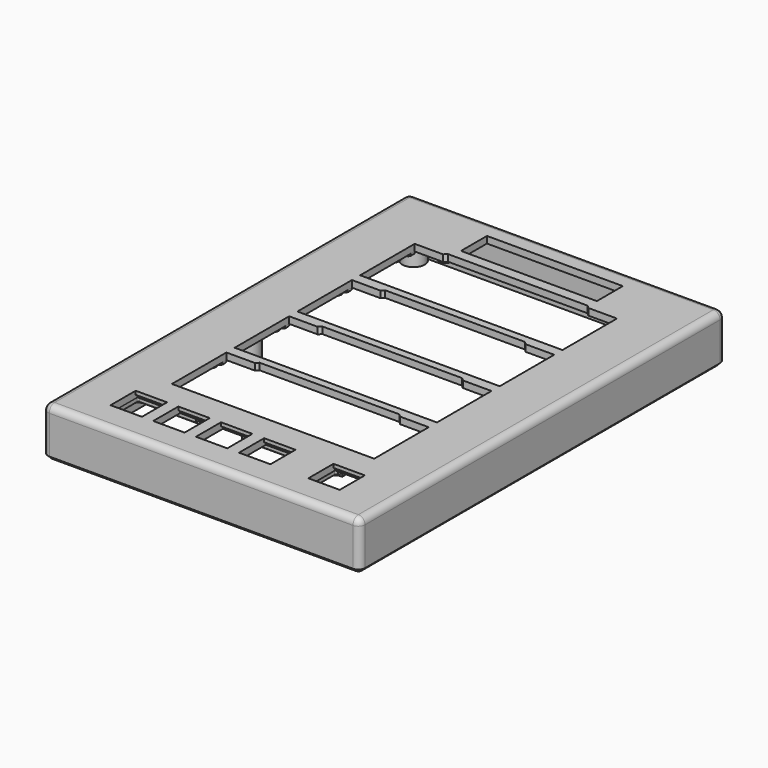
from build123d import *

# Parameters (mm, degrees)
TUBE041_R         = 5
TUBE041_R_2       = 2.25
TUBE041_DEPTH     = 16.9
TUBE042_R         = 5
TUBE042_R_2       = 2.25
TUBE042_DEPTH     = 16.9
TUBE043_R         = 5
TUBE043_R_2       = 2.25
TUBE043_DEPTH     = 16.9
TUBE044_R         = 5
TUBE044_R_2       = 2.25
TUBE044_DEPTH     = 16.9
TUBE045_R         = 5
TUBE045_R_2       = 2.25
TUBE045_DEPTH     = 16.9
TUBE040_R         = 5
TUBE040_R_2       = 2.25
TUBE040_DEPTH     = 16.9
TUBE035_R         = 2.25
TUBE035_R_2       = 1.025
TUBE035_DEPTH     = 6
TUBE036_R         = 2.25
TUBE036_R_2       = 1.025
TUBE036_DEPTH     = 6
TUBE037_R         = 2.25
TUBE037_R_2       = 1.025
TUBE037_DEPTH     = 6
TUBE038_R         = 2.25
TUBE038_R_2       = 1.025
TUBE038_DEPTH     = 6
TUBE039_R         = 2.25
TUBE039_R_2       = 1.025
TUBE039_DEPTH     = 6
TUBE034_R         = 2.25
TUBE034_R_2       = 1.025
TUBE034_DEPTH     = 6
EXTRUDE014_DEPTH  = 2
EXTRUDE013_DEPTH  = 1.55
EXTRUDE012_DEPTH  = 1.55
EXTRUDE011_DEPTH  = 2
TUBE025_R         = 3
TUBE025_R_2       = 1.25
TUBE025_DEPTH     = 6
TUBE026_R         = 3
TUBE026_R_2       = 1.25
TUBE026_DEPTH     = 6
TUBE027_R         = 3
TUBE027_R_2       = 1.25
TUBE027_DEPTH     = 6
TUBE028_R         = 3
TUBE028_R_2       = 1.25
TUBE028_DEPTH     = 6
TUBE029_R         = 3
TUBE029_R_2       = 1.25
TUBE029_DEPTH     = 6
TUBE030_R         = 3
TUBE030_R_2       = 1.25
TUBE030_DEPTH     = 6
TUBE031_R         = 3
TUBE031_R_2       = 1.25
TUBE031_DEPTH     = 6
TUBE032_R         = 3
TUBE032_R_2       = 1.25
TUBE032_DEPTH     = 6
TUBE033_R         = 3
TUBE033_R_2       = 1.25
TUBE033_DEPTH     = 6
TUBE024_R         = 3
TUBE024_R_2       = 1.25
TUBE024_DEPTH     = 6
CYLINDER030_R     = 1.4
CYLINDER030_DEPTH = 1
CYLINDER031_R     = 2.25
CYLINDER031_DEPTH = 1
CYLINDER032_R     = 1.4
CYLINDER032_DEPTH = 1
CYLINDER033_R     = 2.25
CYLINDER033_DEPTH = 1
CYLINDER034_R     = 1.4
CYLINDER034_DEPTH = 1
CYLINDER035_R     = 2.25
CYLINDER035_DEPTH = 1
CYLINDER036_R     = 1.4
CYLINDER036_DEPTH = 1
CYLINDER037_R     = 2.25
CYLINDER037_DEPTH = 1
CYLINDER038_R     = 1.4
CYLINDER038_DEPTH = 1
CYLINDER039_R     = 2.25
CYLINDER039_DEPTH = 1
CYLINDER040_R     = 1.4
CYLINDER040_DEPTH = 1
CYLINDER041_R     = 2.25
CYLINDER041_DEPTH = 1
CYLINDER042_R     = 1.4
CYLINDER042_DEPTH = 1
CYLINDER043_R     = 2.25
CYLINDER043_DEPTH = 1
CYLINDER044_R     = 1.4
CYLINDER044_DEPTH = 1
CYLINDER045_R     = 2.25
CYLINDER045_DEPTH = 1
CYLINDER046_R     = 1.4
CYLINDER046_DEPTH = 1
CYLINDER047_R     = 2.25
CYLINDER047_DEPTH = 1
CYLINDER048_R     = 1.4
CYLINDER048_DEPTH = 1
CYLINDER049_R     = 2.25
CYLINDER049_DEPTH = 1
CYLINDER050_R     = 1.4
CYLINDER050_DEPTH = 1
CYLINDER051_R     = 2.25
CYLINDER051_DEPTH = 1
CYLINDER052_R     = 1.4
CYLINDER052_DEPTH = 1
CYLINDER053_R     = 2.25
CYLINDER053_DEPTH = 1
CYLINDER054_R     = 1.4
CYLINDER054_DEPTH = 1
CYLINDER055_R     = 2.25
CYLINDER055_DEPTH = 1
CYLINDER056_R     = 1.4
CYLINDER056_DEPTH = 1
CYLINDER057_R     = 2.25
CYLINDER057_DEPTH = 1
CYLINDER058_R     = 1.4
CYLINDER058_DEPTH = 1
CYLINDER059_R     = 2.25
CYLINDER059_DEPTH = 1
CYLINDER028_R     = 1.4
CYLINDER028_DEPTH = 1
CYLINDER029_R     = 2.25
CYLINDER029_DEPTH = 1
BOX016_W          = 5.25
BOX016_H          = 20.5
BOX016_DEPTH      = 2.5
BOX017_W          = 5.25
BOX017_H          = 20.5
BOX017_DEPTH      = 2.5
BOX018_W          = 5.25
BOX018_H          = 20.5
BOX018_DEPTH      = 2.5
BOX015_W          = 5.25
BOX015_H          = 20.5
BOX015_DEPTH      = 2.5
BOX011_W          = 14
BOX011_H          = 14
BOX011_DEPTH      = 4
BOX012_W          = 14
BOX012_H          = 14
BOX012_DEPTH      = 4
BOX013_W          = 14
BOX013_H          = 14
BOX013_DEPTH      = 4
BOX014_W          = 14
BOX014_H          = 14
BOX014_DEPTH      = 4
BOX026_W          = 14
BOX026_H          = 16
BOX026_DEPTH      = 2.2
BOX027_W          = 14
BOX027_H          = 16
BOX027_DEPTH      = 2.2
BOX028_W          = 14
BOX028_H          = 16
BOX028_DEPTH      = 2.2
BOX029_W          = 14
BOX029_H          = 16
BOX029_DEPTH      = 2.2
BOX030_W          = 14
BOX030_H          = 16
BOX030_DEPTH      = 2.2
BOX010_W          = 14
BOX010_H          = 14
BOX010_DEPTH      = 4
EXTRUDE004_DEPTH  = 4
EXTRUDE005_DEPTH  = 4
EXTRUDE006_DEPTH  = 4
EXTRUDE003_DEPTH  = 4
CYLINDER021_R     = 1.25
CYLINDER021_DEPTH = 6.85
CYLINDER023_R     = 1.25
CYLINDER023_DEPTH = 6.85
CYLINDER025_R     = 1.25
CYLINDER025_DEPTH = 6.85
CYLINDER027_R     = 1.25
CYLINDER027_DEPTH = 6.85
CYLINDER022_R     = 2.5
CYLINDER022_DEPTH = 4.85
CYLINDER024_R     = 2.5
CYLINDER024_DEPTH = 4.85
CYLINDER026_R     = 2.5
CYLINDER026_DEPTH = 4.85
CYLINDER020_R     = 2.5
CYLINDER020_DEPTH = 4.85
BOX009_W          = 60.63
BOX009_H          = 14.49
BOX009_DEPTH      = 4
BOX005_W          = 135.5
BOX005_H          = 198
BOX005_DEPTH      = 1.5
SKETCH_W          = 135.5
SKETCH_H          = 198
EXTRUDE_DEPTH     = 1.5
BOX001_W          = 135.5
BOX001_H          = 198
BOX001_DEPTH      = 17
THICKNESS001_T    = 3


with BuildPart() as tube041:
    # Tube041 → Tube041 (new body)
    with BuildSketch(Plane(origin=(64.5, 50, -16.6), x_dir=(1, 0, 0), z_dir=(0, 0, 1))):
        Circle(TUBE041_R)
        Circle(TUBE041_R_2, mode=Mode.SUBTRACT)
    extrude(amount=TUBE041_DEPTH)


with BuildPart() as tube042:
    # Tube042 → Tube042 (new body)
    with BuildSketch(Plane(origin=(64.5, 142.5, -16.6), x_dir=(1, 0, 0), z_dir=(0, 0, 1))):
        Circle(TUBE042_R)
        Circle(TUBE042_R_2, mode=Mode.SUBTRACT)
    extrude(amount=TUBE042_DEPTH)


with BuildPart() as tube043:
    # Tube043 → Tube043 (new body)
    with BuildSketch(Plane(origin=(-57.5, -42.5, -16.6), x_dir=(1, 0, 0), z_dir=(0, 0, 1))):
        Circle(TUBE043_R)
        Circle(TUBE043_R_2, mode=Mode.SUBTRACT)
    extrude(amount=TUBE043_DEPTH)


with BuildPart() as tube044:
    # Tube044 → Tube044 (new body)
    with BuildSketch(Plane(origin=(-57.5, 50, -16.6), x_dir=(1, 0, 0), z_dir=(0, 0, 1))):
        Circle(TUBE044_R)
        Circle(TUBE044_R_2, mode=Mode.SUBTRACT)
    extrude(amount=TUBE044_DEPTH)


with BuildPart() as tube045:
    # Tube045 → Tube045 (new body)
    with BuildSketch(Plane(origin=(-57.5, 142.5, -16.6), x_dir=(1, 0, 0), z_dir=(0, 0, 1))):
        Circle(TUBE045_R)
        Circle(TUBE045_R_2, mode=Mode.SUBTRACT)
    extrude(amount=TUBE045_DEPTH)


with BuildPart() as upper_mounting_posts:
    # Tube040 → Tube040 (new body)
    with BuildSketch(Plane(origin=(64.5, -42.5, -16.6), x_dir=(1, 0, 0), z_dir=(0, 0, 1))):
        Circle(TUBE040_R)
        Circle(TUBE040_R_2, mode=Mode.SUBTRACT)
    extrude(amount=TUBE040_DEPTH)

    # Fusion068: union Tube041, Tube042, Tube043, Tube044, Tube045
    add(tube041.part)
    add(tube042.part)
    add(tube043.part)
    add(tube044.part)
    add(tube045.part)


with BuildPart() as tube035:
    # Tube035 → Tube035 (new body)
    with BuildSketch(Plane(origin=(61.43, -31.52, -5.7), x_dir=(1, 0, 0), z_dir=(0, 0, 1))):
        Circle(TUBE035_R)
        Circle(TUBE035_R_2, mode=Mode.SUBTRACT)
    extrude(amount=TUBE035_DEPTH)


with BuildPart() as tube036:
    # Tube036 → Tube036 (new body)
    with BuildSketch(Plane(origin=(15.18, -16.37, -5.7), x_dir=(1, 0, 0), z_dir=(0, 0, 1))):
        Circle(TUBE036_R)
        Circle(TUBE036_R_2, mode=Mode.SUBTRACT)
    extrude(amount=TUBE036_DEPTH)


with BuildPart() as tube037:
    # Tube037 → Tube037 (new body)
    with BuildSketch(Plane(origin=(-39.32, -16.32, -5.7), x_dir=(1, 0, 0), z_dir=(0, 0, 1))):
        Circle(TUBE037_R)
        Circle(TUBE037_R_2, mode=Mode.SUBTRACT)
    extrude(amount=TUBE037_DEPTH)


with BuildPart() as tube038:
    # Tube038 → Tube038 (new body)
    with BuildSketch(Plane(origin=(15.18, -46.87, -5.7), x_dir=(1, 0, 0), z_dir=(0, 0, 1))):
        Circle(TUBE038_R)
        Circle(TUBE038_R_2, mode=Mode.SUBTRACT)
    extrude(amount=TUBE038_DEPTH)


with BuildPart() as tube039:
    # Tube039 → Tube039 (new body)
    with BuildSketch(Plane(origin=(-39.32, -46.72, -5.7), x_dir=(1, 0, 0), z_dir=(0, 0, 1))):
        Circle(TUBE039_R)
        Circle(TUBE039_R_2, mode=Mode.SUBTRACT)
    extrude(amount=TUBE039_DEPTH)


with BuildPart() as obj1:
    # Tube034 → Tube034 (new body)
    with BuildSketch(Plane(origin=(33.43, -31.47, -5.7), x_dir=(1, 0, 0), z_dir=(0, 0, 1))):
        Circle(TUBE034_R)
        Circle(TUBE034_R_2, mode=Mode.SUBTRACT)
    extrude(amount=TUBE034_DEPTH)

    # Fusion047: union Tube035, Tube036, Tube037, Tube038, Tube039
    add(tube035.part)
    add(tube036.part)
    add(tube037.part)
    add(tube038.part)
    add(tube039.part)


with BuildPart() as extrude014:
    # Sketch010 (on Sketch) → Extrude014 (new body)
    with BuildSketch(Plane(origin=(-64.35, -49.1, -16.7), x_dir=(1, 0, 0), z_dir=(0, 0, 1))):
        with BuildLine():
            ThreePointArc((85.4, 66.88), (84.070265, 70.090265), (80.86, 71.42))
            Line((80.86, 71.42), (80.225, 71.42))
            Line((80.225, 67.42), (80.225, 71.42))
            Line((80.86, 67.42), (80.225, 67.42))
            ThreePointArc((81.4, 66.88), (81.241837, 67.261838), (80.86, 67.42))
            Line((81.4, 50.37), (81.4, 66.88))
            ThreePointArc((80.86, 49.83), (81.241838, 49.988163), (81.4, 50.37))
            Line((80.225, 49.83), (80.86, 49.83))
            Line((80.225, 45.83), (80.225, 49.83))
            Line((80.86, 45.83), (80.225, 45.83))
            ThreePointArc((80.86, 45.83), (84.070265, 47.159735), (85.4, 50.37))
            Line((85.4, 66.88), (85.4, 50.37))
        make_face()
        with BuildLine():
            ThreePointArc((66.889986, 71.42), (63.679728, 70.090258), (62.35, 66.879994))
            Line((62.35, 66.879994), (62.35, 50.37))
            ThreePointArc((62.35, 50.37), (63.679735, 47.159735), (66.89, 45.83))
            Line((66.89, 45.83), (67.525, 45.83))
            Line((67.525, 49.83), (67.525, 45.83))
            Line((66.89, 49.83), (67.525, 49.83))
            ThreePointArc((66.35, 50.37), (66.508162, 49.988162), (66.89, 49.83))
            Line((66.35, 66.879994), (66.35, 50.37))
            ThreePointArc((66.889994, 67.42), (66.508158, 67.261834), (66.35, 66.879994))
            Line((66.889994, 67.42), (67.524986, 67.42))
            Line((67.524986, 71.42), (67.524986, 67.42))
            Line((66.889986, 71.42), (67.524986, 71.42))
        make_face()
    extrude(amount=EXTRUDE014_DEPTH)


with BuildPart() as extrude014_1:
    # Extrude014 placement: moved
    add(extrude014.part.moved(Location((39.9, -41.05, 15))))


with BuildPart() as obj2:
    # Sketch009 (on Box) → Extrude013 (new body)
    with BuildSketch(Plane(origin=(-64.35, -49.1, -16.7), x_dir=(1, 0, 0), z_dir=(0, 0, 1))):
        with BuildLine():
            ThreePointArc((66.889986, 71.42), (63.679725, 70.090255), (62.35, 66.879986))
            Line((62.35, 66.879986), (62.35, 50.37))
            ThreePointArc((62.35, 50.37), (63.679735, 47.159735), (66.89, 45.83))
            Line((66.89, 45.83), (67.525, 45.83))
            Line((67.525, 45.83), (67.525, 47.58))
            Line((66.89, 47.58), (67.525, 47.58))
            ThreePointArc((64.1, 50.37), (64.917172, 48.397172), (66.89, 47.58))
            Line((64.1, 50.37), (64.1, 66.879986))
            ThreePointArc((66.889986, 69.67), (64.917162, 68.852818), (64.1, 66.879986))
            Line((67.524986, 69.67), (66.889986, 69.67))
            Line((67.524986, 71.42), (67.524986, 69.67))
            Line((66.889986, 71.42), (67.524986, 71.42))
        make_face()
        with BuildLine():
            ThreePointArc((83.65, 66.88), (82.832828, 68.852828), (80.86, 69.67))
            Line((80.225, 69.67), (80.86, 69.67))
            Line((80.225, 71.42), (80.225, 69.67))
            Line((80.86, 71.42), (80.225, 71.42))
            ThreePointArc((85.4, 66.88), (84.070265, 70.090265), (80.86, 71.42))
            Line((85.4, 66.88), (85.4, 50.37))
            ThreePointArc((80.86, 45.83), (84.070265, 47.159735), (85.4, 50.37))
            Line((80.225, 45.83), (80.86, 45.83))
            Line((80.225, 47.58), (80.225, 45.83))
            Line((80.86, 47.58), (80.225, 47.58))
            ThreePointArc((80.86, 47.58), (82.832828, 48.397172), (83.65, 50.37))
            Line((83.65, 66.88), (83.65, 50.37))
        make_face()
    extrude(amount=-EXTRUDE013_DEPTH)


with BuildPart() as obj2_1:
    # Extrude013 placement: moved
    add(obj2.part.moved(Location((39.9, -41.05, 15))))

    # Fusion044: union Extrude014
    add(extrude014_1.part)


with BuildPart() as obj2_2:
    # Fusion044 placement: moved
    add(obj2_1.part.moved(Location((-2, 0, 0))))


with BuildPart() as extrude012:
    # Sketch007 (on Box) → Extrude012 (new body)
    with BuildSketch(Plane(origin=(-64.35, -49.1, -16.7), x_dir=(1, 0, 0), z_dir=(0, 0, 1))):
        with BuildLine():
            ThreePointArc((140.8, 68.15), (139.982828, 70.122828), (138.01, 70.94))
            Line((112.8, 70.94), (138.01, 70.94))
            Line((112.8, 72.69), (112.8, 70.94))
            Line((112.8, 72.69), (138.01, 72.69))
            ThreePointArc((142.55, 68.15), (141.220265, 71.360265), (138.01, 72.69))
            Line((142.55, 68.15), (142.55, 51.64))
            ThreePointArc((138.01, 47.1), (141.220265, 48.429735), (142.55, 51.64))
            Line((138.01, 47.1), (112.8, 47.1))
            Line((112.8, 48.85), (112.8, 47.1))
            Line((112.8, 48.85), (138.004718, 48.85))
            ThreePointArc((138.004718, 48.85), (139.979093, 49.663437), (140.8, 51.634718))
            Line((140.8, 51.634718), (140.8, 68.15))
        make_face()
        with BuildLine():
            ThreePointArc((66.89, 72.69), (63.679735, 71.360265), (62.35, 68.15))
            Line((62.35, 51.64), (62.35, 68.15))
            ThreePointArc((62.35, 51.64), (63.679735, 48.429735), (66.89, 47.1))
            Line((92.1, 47.1), (66.89, 47.1))
            Line((92.1, 48.85), (92.1, 47.1))
            Line((92.1, 48.85), (66.970175, 48.85))
            ThreePointArc((64.1, 51.559825), (64.973864, 49.61048), (66.970175, 48.85))
            Line((64.1, 68.112229), (64.1, 51.559825))
            ThreePointArc((66.852229, 70.94), (64.890464, 70.09612), (64.1, 68.112229))
            Line((92.1, 70.94), (66.852229, 70.94))
            Line((92.1, 72.69), (92.1, 70.94))
            Line((66.89, 72.69), (92.1, 72.69))
        make_face()
    extrude(amount=-EXTRUDE012_DEPTH)


with BuildPart() as extrude012_1:
    # Extrude012 placement: moved
    add(extrude012.part.moved(Location((-0.02, 0, 14.99))))


with BuildPart() as obj3:
    # Sketch008 (on Sketch) → Extrude011 (new body)
    with BuildSketch(Plane(origin=(-64.35, -49.1, -16.7), x_dir=(1, 0, 0), z_dir=(0, 0, 1))):
        with BuildLine():
            Line((92.099827, 72.69), (66.89, 72.69))
            ThreePointArc((66.89, 72.69), (63.679735, 71.360265), (62.35, 68.15))
            Line((62.35, 68.15), (62.35, 51.64))
            ThreePointArc((62.35, 51.64), (63.679735, 48.429735), (66.89, 47.1))
            Line((92.099827, 47.1), (66.89, 47.1))
            Line((92.099827, 47.1), (92.099827, 51.1))
            Line((92.099827, 51.1), (66.89, 51.1))
            ThreePointArc((66.35, 51.64), (66.508162, 51.258162), (66.89, 51.1))
            Line((66.35, 68.15), (66.35, 51.64))
            ThreePointArc((66.89, 68.69), (66.508162, 68.531838), (66.35, 68.15))
            Line((92.099827, 68.69), (66.89, 68.69))
            Line((92.099827, 72.69), (92.099827, 68.69))
        make_face()
        with BuildLine():
            Line((112.8, 72.69), (138.009826, 72.697516))
            ThreePointArc((142.549826, 68.157516), (141.220091, 71.367781), (138.009826, 72.697516))
            Line((142.549826, 68.157516), (142.55, 51.64))
            ThreePointArc((138.01, 47.1), (141.220265, 48.429735), (142.55, 51.64))
            Line((112.800173, 47.1), (138.01, 47.1))
            Line((112.800173, 47.1), (112.800173, 51.1))
            Line((112.800173, 51.1), (138.01, 51.1))
            ThreePointArc((138.01, 51.1), (138.422697, 51.291745), (138.54231, 51.730809))
            Line((138.54231, 68.157515), (138.54231, 51.730809))
            ThreePointArc((138.54231, 68.157515), (138.38635, 68.534038), (138.009827, 68.69))
            Line((112.8, 68.69), (138.009827, 68.69))
            Line((112.8, 72.69), (112.8, 68.69))
        make_face()
    extrude(amount=EXTRUDE011_DEPTH)


with BuildPart() as obj3_1:
    # Extrude011 placement: moved
    add(obj3.part.moved(Location((0, 0, 15))))

    # Fusion043: union Extrude012
    add(extrude012_1.part)


with BuildPart() as obj3_2:
    # Fusion043 placement: moved
    add(obj3_1.part.moved(Location((-50.2, -42.35, 0))))

    # Fusion045: union obj2
    add(obj2_2.part)


with BuildPart() as tube025:
    # Tube025 → Tube025 (new body)
    with BuildSketch(Plane(origin=(-51, 55.5, -5.75), x_dir=(1, 0, 0), z_dir=(0, 0, 1))):
        Circle(TUBE025_R)
        Circle(TUBE025_R_2, mode=Mode.SUBTRACT)
    extrude(amount=TUBE025_DEPTH)


with BuildPart() as tube026:
    # Tube026 → Tube026 (new body)
    with BuildSketch(Plane(origin=(-51, 90.5, -5.75), x_dir=(1, 0, 0), z_dir=(0, 0, 1))):
        Circle(TUBE026_R)
        Circle(TUBE026_R_2, mode=Mode.SUBTRACT)
    extrude(amount=TUBE026_DEPTH)


with BuildPart() as tube027:
    # Tube027 → Tube027 (new body)
    with BuildSketch(Plane(origin=(57.75, 20.5, -5.75), x_dir=(1, 0, 0), z_dir=(0, 0, 1))):
        Circle(TUBE027_R)
        Circle(TUBE027_R_2, mode=Mode.SUBTRACT)
    extrude(amount=TUBE027_DEPTH)


with BuildPart() as tube028:
    # Tube028 → Tube028 (new body)
    with BuildSketch(Plane(origin=(57.75, 55.5, -5.75), x_dir=(1, 0, 0), z_dir=(0, 0, 1))):
        Circle(TUBE028_R)
        Circle(TUBE028_R_2, mode=Mode.SUBTRACT)
    extrude(amount=TUBE028_DEPTH)


with BuildPart() as tube029:
    # Tube029 → Tube029 (new body)
    with BuildSketch(Plane(origin=(57.75, 90.5, -5.75), x_dir=(1, 0, 0), z_dir=(0, 0, 1))):
        Circle(TUBE029_R)
        Circle(TUBE029_R_2, mode=Mode.SUBTRACT)
    extrude(amount=TUBE029_DEPTH)


with BuildPart() as tube030:
    # Tube030 → Tube030 (new body)
    with BuildSketch(Plane(origin=(57.75, 122.5, -5.75), x_dir=(1, 0, 0), z_dir=(0, 0, 1))):
        Circle(TUBE030_R)
        Circle(TUBE030_R_2, mode=Mode.SUBTRACT)
    extrude(amount=TUBE030_DEPTH)


with BuildPart() as tube031:
    # Tube031 → Tube031 (new body)
    with BuildSketch(Plane(origin=(57.75, -11.25, -5.75), x_dir=(1, 0, 0), z_dir=(0, 0, 1))):
        Circle(TUBE031_R)
        Circle(TUBE031_R_2, mode=Mode.SUBTRACT)
    extrude(amount=TUBE031_DEPTH)


with BuildPart() as tube032:
    # Tube032 → Tube032 (new body)
    with BuildSketch(Plane(origin=(-51, 122.5, -5.75), x_dir=(1, 0, 0), z_dir=(0, 0, 1))):
        Circle(TUBE032_R)
        Circle(TUBE032_R_2, mode=Mode.SUBTRACT)
    extrude(amount=TUBE032_DEPTH)


with BuildPart() as tube033:
    # Tube033 → Tube033 (new body)
    with BuildSketch(Plane(origin=(-51, -11.25, -5.75), x_dir=(1, 0, 0), z_dir=(0, 0, 1))):
        Circle(TUBE033_R)
        Circle(TUBE033_R_2, mode=Mode.SUBTRACT)
    extrude(amount=TUBE033_DEPTH)


with BuildPart() as oled_screw_posts:
    # Tube024 → Tube024 (new body)
    with BuildSketch(Plane(origin=(-51, 20.5, -5.75), x_dir=(1, 0, 0), z_dir=(0, 0, 1))):
        Circle(TUBE024_R)
        Circle(TUBE024_R_2, mode=Mode.SUBTRACT)
    extrude(amount=TUBE024_DEPTH)

    # Fusion039: union Tube025, Tube026, Tube027, Tube028, Tube029, Tube030, Tube031, Tube032, Tube033
    add(tube025.part)
    add(tube026.part)
    add(tube027.part)
    add(tube028.part)
    add(tube029.part)
    add(tube030.part)
    add(tube031.part)
    add(tube032.part)
    add(tube033.part)


with BuildPart() as cylinder030:
    # Cylinder030 → Cylinder030 (new body)
    with BuildSketch(Plane(origin=(51.4, -11.25, -1.45), x_dir=(1, 0, 0), z_dir=(0, 0, 1))):
        Circle(CYLINDER030_R)
    extrude(amount=CYLINDER030_DEPTH)


with BuildPart() as oled_mounting_post002:
    # Cylinder031 → Cylinder031 (new body)
    with BuildSketch(Plane(origin=(51.4, -11.25, -0.7), x_dir=(1, 0, 0), z_dir=(0, 0, 1))):
        Circle(CYLINDER031_R)
    extrude(amount=CYLINDER031_DEPTH)

    # Fusion022: union Cylinder030
    add(cylinder030.part)


with BuildPart() as oled_mounting_post002_1:
    # Fusion022 placement: moved
    add(oled_mounting_post002.part.moved(Location((-95, 0, 0))))


with BuildPart() as cylinder032:
    # Cylinder032 → Cylinder032 (new body)
    with BuildSketch(Plane(origin=(51.4, -11.25, -1.45), x_dir=(1, 0, 0), z_dir=(0, 0, 1))):
        Circle(CYLINDER032_R)
    extrude(amount=CYLINDER032_DEPTH)


with BuildPart() as oled_mounting_post003:
    # Cylinder033 → Cylinder033 (new body)
    with BuildSketch(Plane(origin=(51.4, -11.25, -0.7), x_dir=(1, 0, 0), z_dir=(0, 0, 1))):
        Circle(CYLINDER033_R)
    extrude(amount=CYLINDER033_DEPTH)

    # Fusion023: union Cylinder032
    add(cylinder032.part)


with BuildPart() as oled_mounting_post003_1:
    # Fusion023 placement: moved
    add(oled_mounting_post003.part.moved(Location((0, 28.5, 0))))


with BuildPart() as cylinder034:
    # Cylinder034 → Cylinder034 (new body)
    with BuildSketch(Plane(origin=(51.4, -11.25, -1.45), x_dir=(1, 0, 0), z_dir=(0, 0, 1))):
        Circle(CYLINDER034_R)
    extrude(amount=CYLINDER034_DEPTH)


with BuildPart() as oled_mounting_post004:
    # Cylinder035 → Cylinder035 (new body)
    with BuildSketch(Plane(origin=(51.4, -11.25, -0.7), x_dir=(1, 0, 0), z_dir=(0, 0, 1))):
        Circle(CYLINDER035_R)
    extrude(amount=CYLINDER035_DEPTH)

    # Fusion024: union Cylinder034
    add(cylinder034.part)


with BuildPart() as oled_mounting_post004_1:
    # Fusion024 placement: moved
    add(oled_mounting_post004.part.moved(Location((0, 35, 0))))


with BuildPart() as cylinder036:
    # Cylinder036 → Cylinder036 (new body)
    with BuildSketch(Plane(origin=(51.4, -11.25, -1.45), x_dir=(1, 0, 0), z_dir=(0, 0, 1))):
        Circle(CYLINDER036_R)
    extrude(amount=CYLINDER036_DEPTH)


with BuildPart() as oled_mounting_post005:
    # Cylinder037 → Cylinder037 (new body)
    with BuildSketch(Plane(origin=(51.4, -11.25, -0.7), x_dir=(1, 0, 0), z_dir=(0, 0, 1))):
        Circle(CYLINDER037_R)
    extrude(amount=CYLINDER037_DEPTH)

    # Fusion025: union Cylinder036
    add(cylinder036.part)


with BuildPart() as oled_mounting_post005_1:
    # Fusion025 placement: moved
    add(oled_mounting_post005.part.moved(Location((0, 63.5, 0))))


with BuildPart() as cylinder038:
    # Cylinder038 → Cylinder038 (new body)
    with BuildSketch(Plane(origin=(51.4, -11.25, -1.45), x_dir=(1, 0, 0), z_dir=(0, 0, 1))):
        Circle(CYLINDER038_R)
    extrude(amount=CYLINDER038_DEPTH)


with BuildPart() as oled_mounting_post006:
    # Cylinder039 → Cylinder039 (new body)
    with BuildSketch(Plane(origin=(51.4, -11.25, -0.7), x_dir=(1, 0, 0), z_dir=(0, 0, 1))):
        Circle(CYLINDER039_R)
    extrude(amount=CYLINDER039_DEPTH)

    # Fusion026: union Cylinder038
    add(cylinder038.part)


with BuildPart() as oled_mounting_post006_1:
    # Fusion026 placement: moved
    add(oled_mounting_post006.part.moved(Location((0, 70, 0))))


with BuildPart() as cylinder040:
    # Cylinder040 → Cylinder040 (new body)
    with BuildSketch(Plane(origin=(51.4, -11.25, -1.45), x_dir=(1, 0, 0), z_dir=(0, 0, 1))):
        Circle(CYLINDER040_R)
    extrude(amount=CYLINDER040_DEPTH)


with BuildPart() as oled_mounting_post007:
    # Cylinder041 → Cylinder041 (new body)
    with BuildSketch(Plane(origin=(51.4, -11.25, -0.7), x_dir=(1, 0, 0), z_dir=(0, 0, 1))):
        Circle(CYLINDER041_R)
    extrude(amount=CYLINDER041_DEPTH)

    # Fusion027: union Cylinder040
    add(cylinder040.part)


with BuildPart() as oled_mounting_post007_1:
    # Fusion027 placement: moved
    add(oled_mounting_post007.part.moved(Location((0, 98.5, 0))))


with BuildPart() as cylinder042:
    # Cylinder042 → Cylinder042 (new body)
    with BuildSketch(Plane(origin=(51.4, -11.25, -1.45), x_dir=(1, 0, 0), z_dir=(0, 0, 1))):
        Circle(CYLINDER042_R)
    extrude(amount=CYLINDER042_DEPTH)


with BuildPart() as oled_mounting_post008:
    # Cylinder043 → Cylinder043 (new body)
    with BuildSketch(Plane(origin=(51.4, -11.25, -0.7), x_dir=(1, 0, 0), z_dir=(0, 0, 1))):
        Circle(CYLINDER043_R)
    extrude(amount=CYLINDER043_DEPTH)

    # Fusion028: union Cylinder042
    add(cylinder042.part)


with BuildPart() as oled_mounting_post008_1:
    # Fusion028 placement: moved
    add(oled_mounting_post008.part.moved(Location((0, 105, 0))))


with BuildPart() as cylinder044:
    # Cylinder044 → Cylinder044 (new body)
    with BuildSketch(Plane(origin=(51.4, -11.25, -1.45), x_dir=(1, 0, 0), z_dir=(0, 0, 1))):
        Circle(CYLINDER044_R)
    extrude(amount=CYLINDER044_DEPTH)


with BuildPart() as oled_mounting_post009:
    # Cylinder045 → Cylinder045 (new body)
    with BuildSketch(Plane(origin=(51.4, -11.25, -0.7), x_dir=(1, 0, 0), z_dir=(0, 0, 1))):
        Circle(CYLINDER045_R)
    extrude(amount=CYLINDER045_DEPTH)

    # Fusion029: union Cylinder044
    add(cylinder044.part)


with BuildPart() as oled_mounting_post009_1:
    # Fusion029 placement: moved
    add(oled_mounting_post009.part.moved(Location((0, 133.5, 0))))


with BuildPart() as cylinder046:
    # Cylinder046 → Cylinder046 (new body)
    with BuildSketch(Plane(origin=(51.4, -11.25, -1.45), x_dir=(1, 0, 0), z_dir=(0, 0, 1))):
        Circle(CYLINDER046_R)
    extrude(amount=CYLINDER046_DEPTH)


with BuildPart() as oled_mounting_post010:
    # Cylinder047 → Cylinder047 (new body)
    with BuildSketch(Plane(origin=(51.4, -11.25, -0.7), x_dir=(1, 0, 0), z_dir=(0, 0, 1))):
        Circle(CYLINDER047_R)
    extrude(amount=CYLINDER047_DEPTH)

    # Fusion030: union Cylinder046
    add(cylinder046.part)


with BuildPart() as oled_mounting_post010_1:
    # Fusion030 placement: moved
    add(oled_mounting_post010.part.moved(Location((-95, 28.5, 0))))


with BuildPart() as cylinder048:
    # Cylinder048 → Cylinder048 (new body)
    with BuildSketch(Plane(origin=(51.4, -11.25, -1.45), x_dir=(1, 0, 0), z_dir=(0, 0, 1))):
        Circle(CYLINDER048_R)
    extrude(amount=CYLINDER048_DEPTH)


with BuildPart() as oled_mounting_post011:
    # Cylinder049 → Cylinder049 (new body)
    with BuildSketch(Plane(origin=(51.4, -11.25, -0.7), x_dir=(1, 0, 0), z_dir=(0, 0, 1))):
        Circle(CYLINDER049_R)
    extrude(amount=CYLINDER049_DEPTH)

    # Fusion031: union Cylinder048
    add(cylinder048.part)


with BuildPart() as oled_mounting_post011_1:
    # Fusion031 placement: moved
    add(oled_mounting_post011.part.moved(Location((-95, 35, 0))))


with BuildPart() as cylinder050:
    # Cylinder050 → Cylinder050 (new body)
    with BuildSketch(Plane(origin=(51.4, -11.25, -1.45), x_dir=(1, 0, 0), z_dir=(0, 0, 1))):
        Circle(CYLINDER050_R)
    extrude(amount=CYLINDER050_DEPTH)


with BuildPart() as oled_mounting_post012:
    # Cylinder051 → Cylinder051 (new body)
    with BuildSketch(Plane(origin=(51.4, -11.25, -0.7), x_dir=(1, 0, 0), z_dir=(0, 0, 1))):
        Circle(CYLINDER051_R)
    extrude(amount=CYLINDER051_DEPTH)

    # Fusion032: union Cylinder050
    add(cylinder050.part)


with BuildPart() as oled_mounting_post012_1:
    # Fusion032 placement: moved
    add(oled_mounting_post012.part.moved(Location((-95, 63.5, 0))))


with BuildPart() as cylinder052:
    # Cylinder052 → Cylinder052 (new body)
    with BuildSketch(Plane(origin=(51.4, -11.25, -1.45), x_dir=(1, 0, 0), z_dir=(0, 0, 1))):
        Circle(CYLINDER052_R)
    extrude(amount=CYLINDER052_DEPTH)


with BuildPart() as oled_mounting_post013:
    # Cylinder053 → Cylinder053 (new body)
    with BuildSketch(Plane(origin=(51.4, -11.25, -0.7), x_dir=(1, 0, 0), z_dir=(0, 0, 1))):
        Circle(CYLINDER053_R)
    extrude(amount=CYLINDER053_DEPTH)

    # Fusion033: union Cylinder052
    add(cylinder052.part)


with BuildPart() as oled_mounting_post013_1:
    # Fusion033 placement: moved
    add(oled_mounting_post013.part.moved(Location((-95, 70, 0))))


with BuildPart() as cylinder054:
    # Cylinder054 → Cylinder054 (new body)
    with BuildSketch(Plane(origin=(51.4, -11.25, -1.45), x_dir=(1, 0, 0), z_dir=(0, 0, 1))):
        Circle(CYLINDER054_R)
    extrude(amount=CYLINDER054_DEPTH)


with BuildPart() as oled_mounting_post014:
    # Cylinder055 → Cylinder055 (new body)
    with BuildSketch(Plane(origin=(51.4, -11.25, -0.7), x_dir=(1, 0, 0), z_dir=(0, 0, 1))):
        Circle(CYLINDER055_R)
    extrude(amount=CYLINDER055_DEPTH)

    # Fusion034: union Cylinder054
    add(cylinder054.part)


with BuildPart() as oled_mounting_post014_1:
    # Fusion034 placement: moved
    add(oled_mounting_post014.part.moved(Location((-95, 98.5, 0))))


with BuildPart() as cylinder056:
    # Cylinder056 → Cylinder056 (new body)
    with BuildSketch(Plane(origin=(51.4, -11.25, -1.45), x_dir=(1, 0, 0), z_dir=(0, 0, 1))):
        Circle(CYLINDER056_R)
    extrude(amount=CYLINDER056_DEPTH)


with BuildPart() as oled_mounting_post015:
    # Cylinder057 → Cylinder057 (new body)
    with BuildSketch(Plane(origin=(51.4, -11.25, -0.7), x_dir=(1, 0, 0), z_dir=(0, 0, 1))):
        Circle(CYLINDER057_R)
    extrude(amount=CYLINDER057_DEPTH)

    # Fusion035: union Cylinder056
    add(cylinder056.part)


with BuildPart() as oled_mounting_post015_1:
    # Fusion035 placement: moved
    add(oled_mounting_post015.part.moved(Location((-95, 105, 0))))


with BuildPart() as cylinder058:
    # Cylinder058 → Cylinder058 (new body)
    with BuildSketch(Plane(origin=(51.4, -11.25, -1.45), x_dir=(1, 0, 0), z_dir=(0, 0, 1))):
        Circle(CYLINDER058_R)
    extrude(amount=CYLINDER058_DEPTH)


with BuildPart() as oled_mounting_post016:
    # Cylinder059 → Cylinder059 (new body)
    with BuildSketch(Plane(origin=(51.4, -11.25, -0.7), x_dir=(1, 0, 0), z_dir=(0, 0, 1))):
        Circle(CYLINDER059_R)
    extrude(amount=CYLINDER059_DEPTH)

    # Fusion036: union Cylinder058
    add(cylinder058.part)


with BuildPart() as oled_mounting_post016_1:
    # Fusion036 placement: moved
    add(oled_mounting_post016.part.moved(Location((-95, 133.5, 0))))


with BuildPart() as cylinder028:
    # Cylinder028 → Cylinder028 (new body)
    with BuildSketch(Plane(origin=(51.4, -11.25, -1.45), x_dir=(1, 0, 0), z_dir=(0, 0, 1))):
        Circle(CYLINDER028_R)
    extrude(amount=CYLINDER028_DEPTH)


with BuildPart() as oled_mounting_posts:
    # Cylinder029 → Cylinder029 (new body)
    with BuildSketch(Plane(origin=(51.4, -11.25, -0.7), x_dir=(1, 0, 0), z_dir=(0, 0, 1))):
        Circle(CYLINDER029_R)
    extrude(amount=CYLINDER029_DEPTH)

    # Fusion021: union Cylinder028
    add(cylinder028.part)

    # Fusion037: union oled_mounting_post002, oled_mounting_post003, oled_mounting_post004, oled_mounting_post005, oled_mounting_post006, oled_mounting_post007, oled_mounting_post008, oled_mounting_post009, oled_mounting_post010, oled_mounting_post011, oled_mounting_post012, oled_mounting_post013, oled_mounting_post014, oled_mounting_post015, oled_mounting_post016
    add(oled_mounting_post002_1.part)
    add(oled_mounting_post003_1.part)
    add(oled_mounting_post004_1.part)
    add(oled_mounting_post005_1.part)
    add(oled_mounting_post006_1.part)
    add(oled_mounting_post007_1.part)
    add(oled_mounting_post008_1.part)
    add(oled_mounting_post009_1.part)
    add(oled_mounting_post010_1.part)
    add(oled_mounting_post011_1.part)
    add(oled_mounting_post012_1.part)
    add(oled_mounting_post013_1.part)
    add(oled_mounting_post014_1.part)
    add(oled_mounting_post015_1.part)
    add(oled_mounting_post016_1.part)


with BuildPart() as cube013:
    # Box016 → Box016 (new body)
    with BuildSketch(Plane(origin=(-46.5, 28, 0.25), x_dir=(1, 0, 0), z_dir=(0, 0, 1))):
        with Locations((2.625, 10.25)):
            Rectangle(BOX016_W, BOX016_H)
    extrude(amount=BOX016_DEPTH)


with BuildPart() as cube014:
    # Box017 → Box017 (new body)
    with BuildSketch(Plane(origin=(-46.5, 63, 0.25), x_dir=(1, 0, 0), z_dir=(0, 0, 1))):
        with Locations((2.625, 10.25)):
            Rectangle(BOX017_W, BOX017_H)
    extrude(amount=BOX017_DEPTH)


with BuildPart() as cube015:
    # Box018 → Box018 (new body)
    with BuildSketch(Plane(origin=(-46.5, 98, 0.25), x_dir=(1, 0, 0), z_dir=(0, 0, 1))):
        with Locations((2.625, 10.25)):
            Rectangle(BOX018_W, BOX018_H)
    extrude(amount=BOX018_DEPTH)


with BuildPart() as oled_header_pockets:
    # Box015 → Box015 (new body)
    with BuildSketch(Plane(origin=(-46.5, -7, 0.25), x_dir=(1, 0, 0), z_dir=(0, 0, 1))):
        with Locations((2.625, 10.25)):
            Rectangle(BOX015_W, BOX015_H)
    extrude(amount=BOX015_DEPTH)

    # Fusion056: union Cube013, Cube014, Cube015
    add(cube013.part)
    add(cube014.part)
    add(cube015.part)


with BuildPart() as cube008:
    # Box011 → Box011 (new body)
    with BuildSketch(Plane(origin=(9.47, -35.55, -0.5), x_dir=(1, 0, 0), z_dir=(0, 0, 1))):
        with Locations((7, 7)):
            Rectangle(BOX011_W, BOX011_H)
    extrude(amount=BOX011_DEPTH)


with BuildPart() as cube009:
    # Box012 → Box012 (new body)
    with BuildSketch(Plane(origin=(-9.77, -35.55, -0.5), x_dir=(1, 0, 0), z_dir=(0, 0, 1))):
        with Locations((7, 7)):
            Rectangle(BOX012_W, BOX012_H)
    extrude(amount=BOX012_DEPTH)


with BuildPart() as cube010:
    # Box013 → Box013 (new body)
    with BuildSketch(Plane(origin=(-28.81, -35.55, -0.5), x_dir=(1, 0, 0), z_dir=(0, 0, 1))):
        with Locations((7, 7)):
            Rectangle(BOX013_W, BOX013_H)
    extrude(amount=BOX013_DEPTH)


with BuildPart() as cube011:
    # Box014 → Box014 (new body)
    with BuildSketch(Plane(origin=(-47.85, -35.55, -0.5), x_dir=(1, 0, 0), z_dir=(0, 0, 1))):
        with Locations((7, 7)):
            Rectangle(BOX014_W, BOX014_H)
    extrude(amount=BOX014_DEPTH)


with BuildPart() as cube026:
    # Box026 → Box026 (new body)
    with BuildSketch(Plane(origin=(40.4, -36.55, -0.5), x_dir=(1, 0, 0), z_dir=(0, 0, 1))):
        with Locations((7, 8)):
            Rectangle(BOX026_W, BOX026_H)
    extrude(amount=BOX026_DEPTH)


with BuildPart() as cube027:
    # Box027 → Box027 (new body)
    with BuildSketch(Plane(origin=(9.47, -36.55, -0.5), x_dir=(1, 0, 0), z_dir=(0, 0, 1))):
        with Locations((7, 8)):
            Rectangle(BOX027_W, BOX027_H)
    extrude(amount=BOX027_DEPTH)


with BuildPart() as cube028:
    # Box028 → Box028 (new body)
    with BuildSketch(Plane(origin=(-9.77, -36.55, -0.5), x_dir=(1, 0, 0), z_dir=(0, 0, 1))):
        with Locations((7, 8)):
            Rectangle(BOX028_W, BOX028_H)
    extrude(amount=BOX028_DEPTH)


with BuildPart() as cube029:
    # Box029 → Box029 (new body)
    with BuildSketch(Plane(origin=(-28.81, -36.55, -0.5), x_dir=(1, 0, 0), z_dir=(0, 0, 1))):
        with Locations((7, 8)):
            Rectangle(BOX029_W, BOX029_H)
    extrude(amount=BOX029_DEPTH)


with BuildPart() as cube030:
    # Box030 → Box030 (new body)
    with BuildSketch(Plane(origin=(-47.85, -36.55, -0.5), x_dir=(1, 0, 0), z_dir=(0, 0, 1))):
        with Locations((7, 8)):
            Rectangle(BOX030_W, BOX030_H)
    extrude(amount=BOX030_DEPTH)


with BuildPart() as keypad_cutout:
    # Box010 → Box010 (new body)
    with BuildSketch(Plane(origin=(40.4, -35.55, -0.5), x_dir=(1, 0, 0), z_dir=(0, 0, 1))):
        with Locations((7, 7)):
            Rectangle(BOX010_W, BOX010_H)
    extrude(amount=BOX010_DEPTH)

    # Fusion020: union Cube008, Cube009, Cube010, Cube011, Cube026, Cube027, Cube028, Cube029, Cube030
    add(cube008.part)
    add(cube009.part)
    add(cube010.part)
    add(cube011.part)
    add(cube026.part)
    add(cube027.part)
    add(cube028.part)
    add(cube029.part)
    add(cube030.part)


with BuildPart() as keypad_cutout_1:
    # Fusion020 placement: moved
    add(keypad_cutout.part.moved(Location((0, -3, 0))))


with BuildPart() as oled_cutout002:
    # Sketch002 (on Cut) → Extrude004 (new body)
    with BuildSketch(Plane.XY):
        Polygon((-41.192016, 17.748177), (-41.192016, -12.661823), (49.074307, -12.661823), (49.074307, 17.748177), (36.265017, 17.748177), (35.057191, 18.956003), (-27.316173, 18.956003), (-28.523999, 17.748177), align=None)
    extrude(amount=EXTRUDE004_DEPTH)


with BuildPart() as oled_cutout002_1:
    # Extrude004 placement: moved
    add(oled_cutout002.part.moved(Location((0, 35, 0))))


with BuildPart() as oled_cutout003:
    # Sketch002 (on Cut) → Extrude005 (new body)
    with BuildSketch(Plane.XY):
        Polygon((-41.192016, 17.748177), (-41.192016, -12.661823), (49.074307, -12.661823), (49.074307, 17.748177), (36.265017, 17.748177), (35.057191, 18.956003), (-27.316173, 18.956003), (-28.523999, 17.748177), align=None)
    extrude(amount=EXTRUDE005_DEPTH)


with BuildPart() as oled_cutout003_1:
    # Extrude005 placement: moved
    add(oled_cutout003.part.moved(Location((0, 70, 0))))


with BuildPart() as oled_cutout004:
    # Sketch002 (on Cut) → Extrude006 (new body)
    with BuildSketch(Plane.XY):
        Polygon((-41.192016, 17.748177), (-41.192016, -12.661823), (49.074307, -12.661823), (49.074307, 17.748177), (36.265017, 17.748177), (35.057191, 18.956003), (-27.316173, 18.956003), (-28.523999, 17.748177), align=None)
    extrude(amount=EXTRUDE006_DEPTH)


with BuildPart() as oled_cutout004_1:
    # Extrude006 placement: moved
    add(oled_cutout004.part.moved(Location((0, 105, 0))))


with BuildPart() as oled_cutouts:
    # Sketch002 (on Cut) → Extrude003 (new body)
    with BuildSketch(Plane.XY):
        Polygon((-41.192016, 17.748177), (-41.192016, -12.661823), (49.074307, -12.661823), (49.074307, 17.748177), (36.265017, 17.748177), (35.057191, 18.956003), (-27.316173, 18.956003), (-28.523999, 17.748177), align=None)
    extrude(amount=EXTRUDE003_DEPTH)

    # Fusion019: union OLED_cutout002, OLED_cutout003, OLED_cutout004
    add(oled_cutout002_1.part)
    add(oled_cutout003_1.part)
    add(oled_cutout004_1.part)


with BuildPart() as cylinder021:
    # Cylinder021 → Cylinder021 (new body)
    with BuildSketch(Plane(origin=(-34.7, 140.18, -4.55), x_dir=(1, 0, 0), z_dir=(0, 0, 1))):
        Circle(CYLINDER021_R)
    extrude(amount=CYLINDER021_DEPTH)


with BuildPart() as cylinder023:
    # Cylinder023 → Cylinder023 (new body)
    with BuildSketch(Plane(origin=(-34.7, 131.68, -4.55), x_dir=(1, 0, 0), z_dir=(0, 0, 1))):
        Circle(CYLINDER023_R)
    extrude(amount=CYLINDER023_DEPTH)


with BuildPart() as cylinder025:
    # Cylinder025 → Cylinder025 (new body)
    with BuildSketch(Plane(origin=(41.75, 131.68, -4.55), x_dir=(1, 0, 0), z_dir=(0, 0, 1))):
        Circle(CYLINDER025_R)
    extrude(amount=CYLINDER025_DEPTH)


with BuildPart() as led_mounting_holes:
    # Cylinder027 → Cylinder027 (new body)
    with BuildSketch(Plane(origin=(41.75, 140.18, -4.55), x_dir=(1, 0, 0), z_dir=(0, 0, 1))):
        Circle(CYLINDER027_R)
    extrude(amount=CYLINDER027_DEPTH)

    # Fusion017: union Cylinder021, Cylinder023, Cylinder025
    add(cylinder021.part)
    add(cylinder023.part)
    add(cylinder025.part)


with BuildPart() as cylinder022:
    # Cylinder022 → Cylinder022 (new body)
    with BuildSketch(Plane(origin=(-34.7, 131.675, -4.55), x_dir=(1, 0, 0), z_dir=(0, 0, 1))):
        Circle(CYLINDER022_R)
    extrude(amount=CYLINDER022_DEPTH)


with BuildPart() as cylinder024:
    # Cylinder024 → Cylinder024 (new body)
    with BuildSketch(Plane(origin=(41.75, 131.675, -4.55), x_dir=(1, 0, 0), z_dir=(0, 0, 1))):
        Circle(CYLINDER024_R)
    extrude(amount=CYLINDER024_DEPTH)


with BuildPart() as cylinder026:
    # Cylinder026 → Cylinder026 (new body)
    with BuildSketch(Plane(origin=(41.75, 140.175, -4.55), x_dir=(1, 0, 0), z_dir=(0, 0, 1))):
        Circle(CYLINDER026_R)
    extrude(amount=CYLINDER026_DEPTH)


with BuildPart() as led_mounting_posts:
    # Cylinder020 → Cylinder020 (new body)
    with BuildSketch(Plane(origin=(-34.7, 140.175, -4.55), x_dir=(1, 0, 0), z_dir=(0, 0, 1))):
        Circle(CYLINDER020_R)
    extrude(amount=CYLINDER020_DEPTH)

    # Fusion016: union Cylinder022, Cylinder024, Cylinder026
    add(cylinder022.part)
    add(cylinder024.part)
    add(cylinder026.part)


with BuildPart() as led_display_cutout:
    # Box009 → Box009 (new body)
    with BuildSketch(Plane(origin=(-25.25, 128.65, -0.25), x_dir=(1, 0, 0), z_dir=(0, 0, 1))):
        with Locations((30.315, 7.245)):
            Rectangle(BOX009_W, BOX009_H)
    extrude(amount=BOX009_DEPTH)


with BuildPart() as cube005:
    # Box005 → Box005 (new body)
    with BuildSketch(Plane(origin=(-64.35, -49.1, -18.2), x_dir=(1, 0, 0), z_dir=(0, 0, 1))):
        with Locations((67.75, 99)):
            Rectangle(BOX005_W, BOX005_H)
    extrude(amount=BOX005_DEPTH)


with BuildPart() as cut001:
    # Sketch (on Face6 of Box) → Extrude (new body)
    with BuildSketch(Plane(origin=(-64.35, -49.1, -20.7), x_dir=(1, 0, 0), z_dir=(0, 0, 1))):
        with BuildLine():
            Line((-1.5, 198), (-1.5, 0))
            ThreePointArc((-1.5, 0), (-1.06066, -1.06066), (0, -1.5))
            Line((0, -1.5), (135.5, -1.5))
            ThreePointArc((135.5, -1.5), (136.56066, -1.06066), (137, 0))
            Line((137, 0), (137, 198))
            ThreePointArc((137, 198), (136.56066, 199.06066), (135.5, 199.5))
            Line((135.5, 199.5), (0, 199.5))
            ThreePointArc((0, 199.5), (-1.06066, 199.06066), (-1.5, 198))
        make_face()
        with Locations((67.75, 99)):
            Rectangle(SKETCH_W, SKETCH_H, mode=Mode.SUBTRACT)
        with Locations((67.75, 99)):
            Rectangle(SKETCH_W, SKETCH_H, mode=Mode.SUBTRACT)
    extrude(amount=-EXTRUDE_DEPTH)


with BuildPart() as cut001_1:
    # Extrude placement: moved
    add(cut001.part.moved(Location((0, 0, 4))))

    # Cut001: cut Cube005
    add(cube005.part, mode=Mode.SUBTRACT)


with BuildPart() as upper_case:
    # Box001 → Box001 (new body)
    with BuildSketch(Plane(origin=(-64.35, -49.1, -16.7), x_dir=(1, 0, 0), z_dir=(0, 0, 1))):
        with Locations((67.75, 99)):
            Rectangle(BOX001_W, BOX001_H)
    extrude(amount=BOX001_DEPTH)

    # Thickness001
    thickness001_openings = [upper_case.faces().sort_by_distance(p)[0] for p in [
        (3.4, 49.9, -16.7),
    ]]
    offset(amount=THICKNESS001_T, openings=thickness001_openings)

    # Fusion001: union Cut001
    add(cut001_1.part)

    # Cut008: cut LED_display_cutout
    add(led_display_cutout.part, mode=Mode.SUBTRACT)

    # Fusion018: union LED_mounting_posts
    add(led_mounting_posts.part)

    # Cut009: cut LED_mounting_holes
    add(led_mounting_holes.part, mode=Mode.SUBTRACT)

    # Cut010: cut OLED_cutouts
    add(oled_cutouts.part, mode=Mode.SUBTRACT)

    # Cut011: cut keypad_cutout
    add(keypad_cutout_1.part, mode=Mode.SUBTRACT)

    # Cut012: cut oled_header_pockets
    add(oled_header_pockets.part, mode=Mode.SUBTRACT)

    # Fusion057: union obj1, obj3, oled_screw_posts, oled_mounting_posts
    add(obj1.part)
    add(obj3_2.part)
    add(oled_screw_posts.part)
    add(oled_mounting_posts.part)

    # Fusion069: union upper_mounting_posts
    add(upper_mounting_posts.part)


solid = upper_case.part
